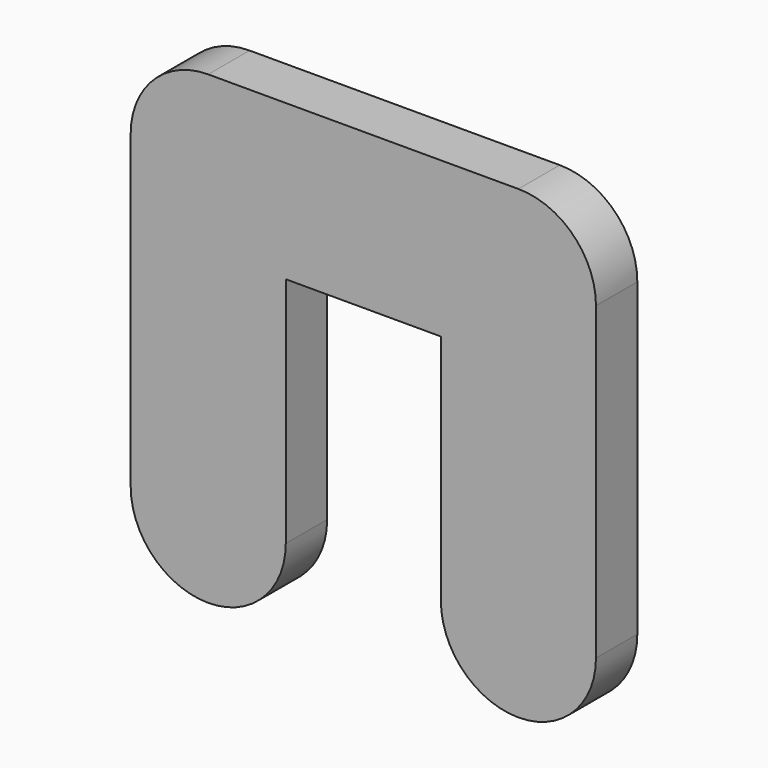
from build123d import *

# Parameters (mm, degrees)
F1_DEPTH = 10
F2_T     = -1


with BuildPart() as f1:
    # F0 (on Front) → F1 (new body)
    with BuildSketch(Plane.XZ):
        with BuildLine():
            Line((75, 90), (15, 90))
            ThreePointArc((15, 90), (4.3933982822, 85.6066017178), (0, 75))
            Line((0, 75), (0, 15))
            ThreePointArc((0, 15), (4.3933982822, 4.3933982822), (15, 0))
            ThreePointArc((15, 0), (25.6066017178, 4.3933982822), (30, 15))
            Line((30, 15), (30, 60))
            Line((30, 60), (60, 60))
            Line((60, 60), (60, 15))
            ThreePointArc((60, 15), (64.3933982822, 4.3933982822), (75, 0))
            ThreePointArc((75, 0), (85.6066017178, 4.3933982822), (90, 15))
            Line((90, 15), (90, 75))
            ThreePointArc((90, 75), (85.6066017178, 85.6066017178), (75, 90))
        make_face()
    extrude(amount=F1_DEPTH)

    # F2
    f2_openings = [f1.faces().sort_by_distance(p)[0] for p in [
        (88.727208, 0, 45),
    ]]
    offset(amount=F2_T, openings=f2_openings, kind=Kind.INTERSECTION)


solid = f1.part
